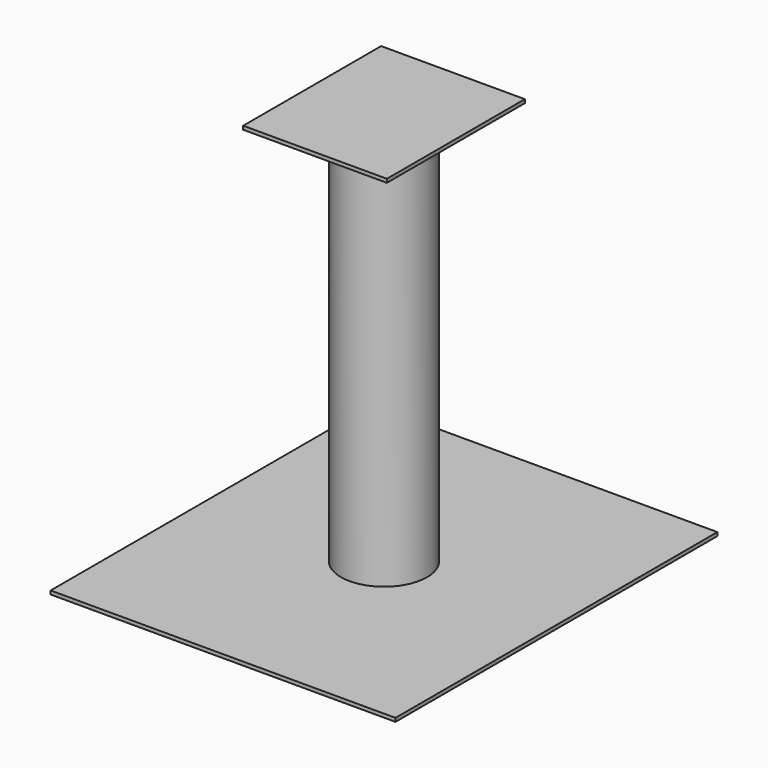
from build123d import *

# Parameters (mm, degrees)
F0_W     = 609.6
F0_H     = 711.2
F1_DEPTH = 6.35
F2_R     = 76.2
F3_DEPTH = 692.15
F4_W     = 254
F4_H     = 304.8
F4_R     = 76.2
F5_DEPTH = 6.35


with BuildPart() as f1:
    # F0 (on Top) → F1 (new body)
    with BuildSketch(Plane.XY):
        Rectangle(F0_W, F0_H)
    extrude(amount=F1_DEPTH)

    # F2 (on face) → F3 (join)
    with BuildSketch(Plane.XY.offset(6.35)):
        Circle(F2_R)
    extrude(amount=F3_DEPTH)

    # F4 (on face) → F5 (join)
    with BuildSketch(Plane.XY.offset(698.5)):
        Rectangle(F4_W, F4_H)
        Circle(F4_R, mode=Mode.SUBTRACT)
        Circle(F4_R)
    extrude(amount=F5_DEPTH)


solid = f1.part
